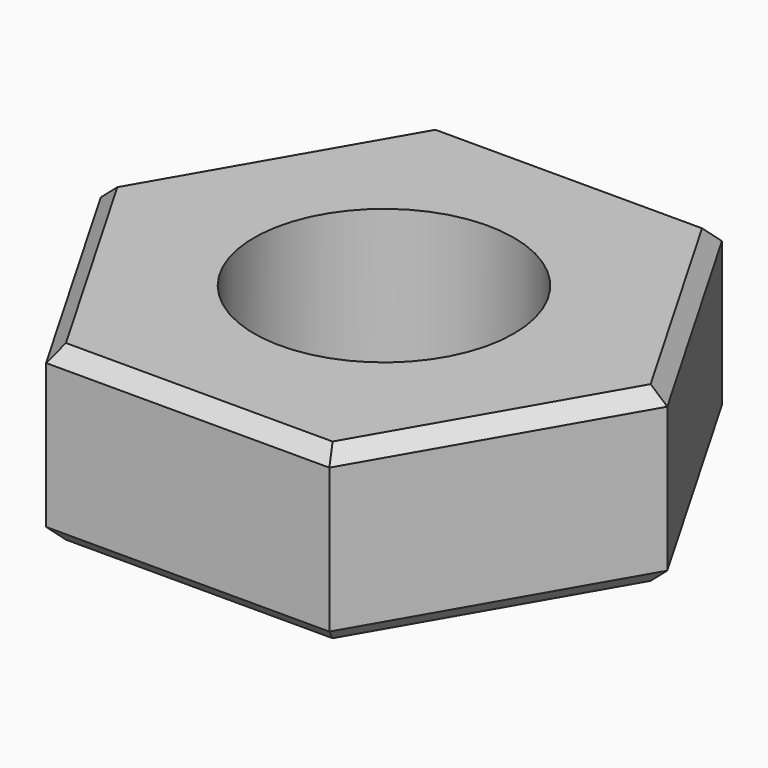
from build123d import *

# Parameters (mm, degrees)
SKETCH_R        = 4.5
PAD_DEPTH       = 6
CHAMFER_SIZE    = 0.5
CHAMFER001_SIZE = 0.5


with BuildPart() as part:
    # Sketch → Pad (new body)
    with BuildSketch(Plane.XY):
        Polygon((4.907477, 8.5), (-4.907477, 8.5), (-9.814955, 0), (-4.907477, -8.5), (4.907477, -8.5), (9.814955, 0), align=None)
        Circle(SKETCH_R, mode=Mode.SUBTRACT)
    extrude(amount=PAD_DEPTH)

    # Chamfer
    chamfer_edges = [part.edges().sort_by_distance(p)[0] for p in [
        (0, -8.5, 6),
        (-7.361216, -4.25, 6),
        (-7.361216, 4.25, 6),
        (0, 8.5, 6),
        (7.361216, 4.25, 6),
        (7.361216, -4.25, 6),
    ]]
    chamfer(chamfer_edges, length=CHAMFER_SIZE)

    # Chamfer001
    chamfer001_edges = [part.edges().sort_by_distance(p)[0] for p in [
        (7.361216, -4.25, 0),
        (0, -8.5, 0),
        (-7.361216, -4.25, 0),
        (-7.361216, 4.25, 0),
        (0, 8.5, 0),
        (7.361216, 4.25, 0),
    ]]
    chamfer(chamfer001_edges, length=CHAMFER001_SIZE)


solid = part.part
